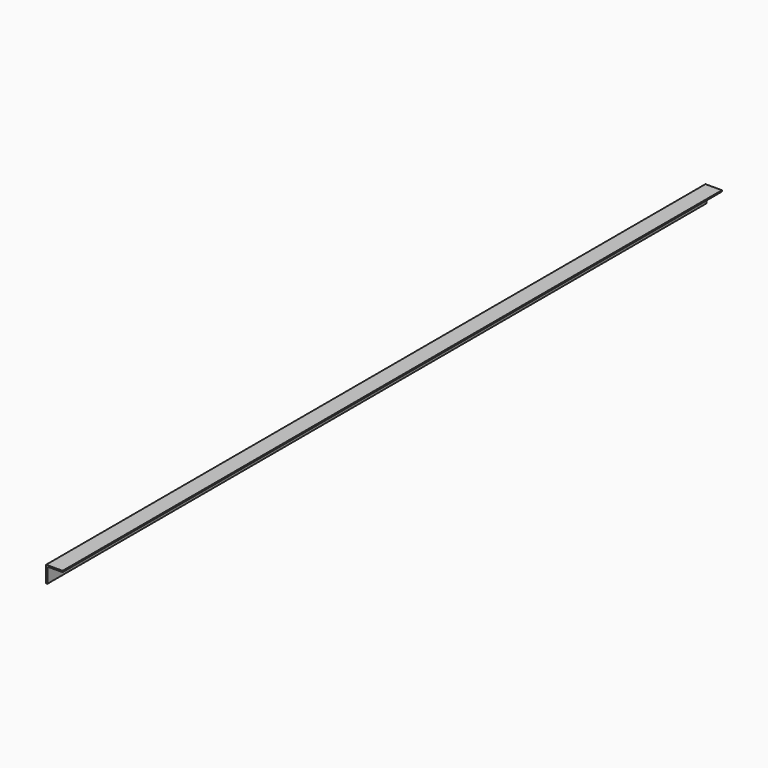
from build123d import *

# Parameters (mm, degrees)
F1_DEPTH = 2000
F2_R     = 5
F3_DEPTH = 3


with BuildPart() as f1:
    # F0 (on Front) → F1 (new body)
    with BuildSketch(Plane.XZ):
        with BuildLine():
            Line((40, 0), (0, 0))
            Line((0, 0), (0, -40))
            Line((0, -40), (3, -40))
            Line((3, -40), (3, -8))
            ThreePointArc((3, -8), (4.464466, -4.464466), (8, -3))
            Line((8, -3), (40, -3))
            Line((40, -3), (40, 0))
        make_face()
    extrude(amount=F1_DEPTH)

    # F2 (on face) → F3 (cut, through all)
    with BuildSketch(Plane(origin=(0, 0, 0), x_dir=(0, -1, 0), z_dir=(-1, 0, 0))):
        with Locations((50, -20)):
            Circle(F2_R)
        with Locations((150, -20)):
            Circle(F2_R)
        with Locations((250, -20)):
            Circle(F2_R)
        with Locations((350, -20)):
            Circle(F2_R)
        with Locations((450, -20)):
            Circle(F2_R)
        with Locations((550, -20)):
            Circle(F2_R)
        with Locations((650, -20)):
            Circle(F2_R)
        with Locations((750, -20)):
            Circle(F2_R)
        with Locations((850, -20)):
            Circle(F2_R)
        with Locations((950, -20)):
            Circle(F2_R)
        with Locations((1050, -20)):
            Circle(F2_R)
        with Locations((1150, -20)):
            Circle(F2_R)
        with Locations((1250, -20)):
            Circle(F2_R)
        with Locations((1350, -20)):
            Circle(F2_R)
        with Locations((1450, -20)):
            Circle(F2_R)
        with Locations((1550, -20)):
            Circle(F2_R)
        with Locations((1650, -20)):
            Circle(F2_R)
        with Locations((1750, -20)):
            Circle(F2_R)
        with Locations((1850, -20)):
            Circle(F2_R)
        with Locations((1950, -20)):
            Circle(F2_R)
        with Locations((2050, -20)):
            Circle(F2_R)
        with Locations((2150, -20)):
            Circle(F2_R)
        with Locations((2250, -20)):
            Circle(F2_R)
        with Locations((2350, -20)):
            Circle(F2_R)
        with Locations((2450, -20)):
            Circle(F2_R)
    extrude(amount=-F3_DEPTH, mode=Mode.SUBTRACT)


solid = f1.part
